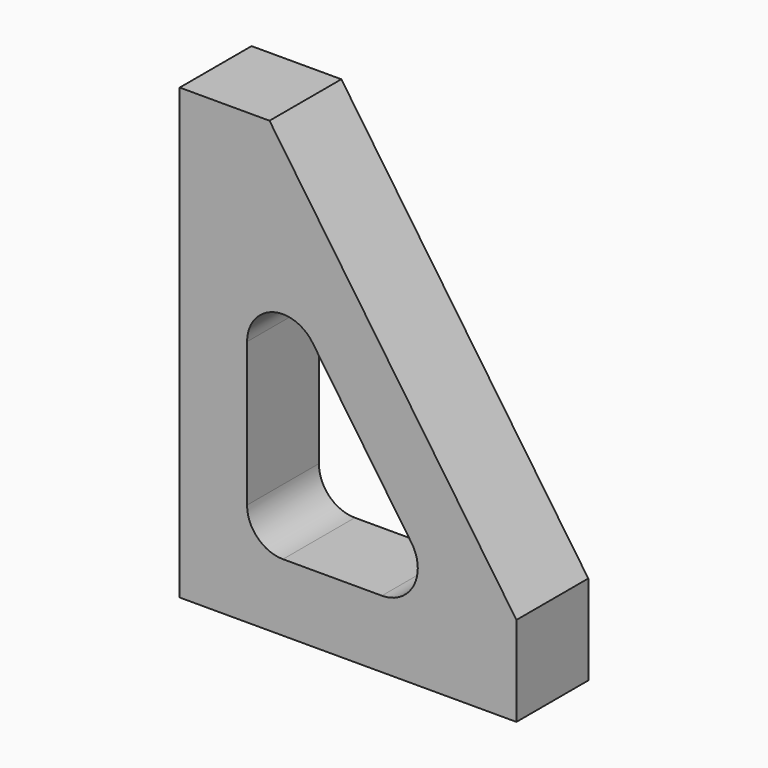
from build123d import *

# Parameters (mm, degrees)
F4_DEPTH = 25.4


with BuildPart() as f4:
    # F3 (on Front) → F4 (new body)
    with BuildSketch(Plane.XZ):
        Polygon((0, 61.356521979), (-25.4, 61.356521979), (-25.4, -65.643478021), (69.85, -65.643478021), (69.85, -40.243478021), align=None)
        with BuildLine():
            ThreePointArc((-6.35, 4.2551029085), (0.7964159254, 13.9578814293), (12.1822659499, 10.011035749))
            Line((12.1822659499, 10.011035749), (40.1556653389, -30.6775451805))
            ThreePointArc((40.1556653389, -30.6775451805), (40.7752256123, -41.1634527747), (31.783399389, -46.593478021))
            Line((31.783399389, -46.593478021), (3.81, -46.593478021))
            ThreePointArc((3.81, -46.593478021), (-3.3742048969, -43.6176829179), (-6.35, -36.433478021))
            Line((-6.35, -36.433478021), (-6.35, 4.2551029085))
        make_face(mode=Mode.SUBTRACT)
    extrude(amount=F4_DEPTH)


solid = f4.part
